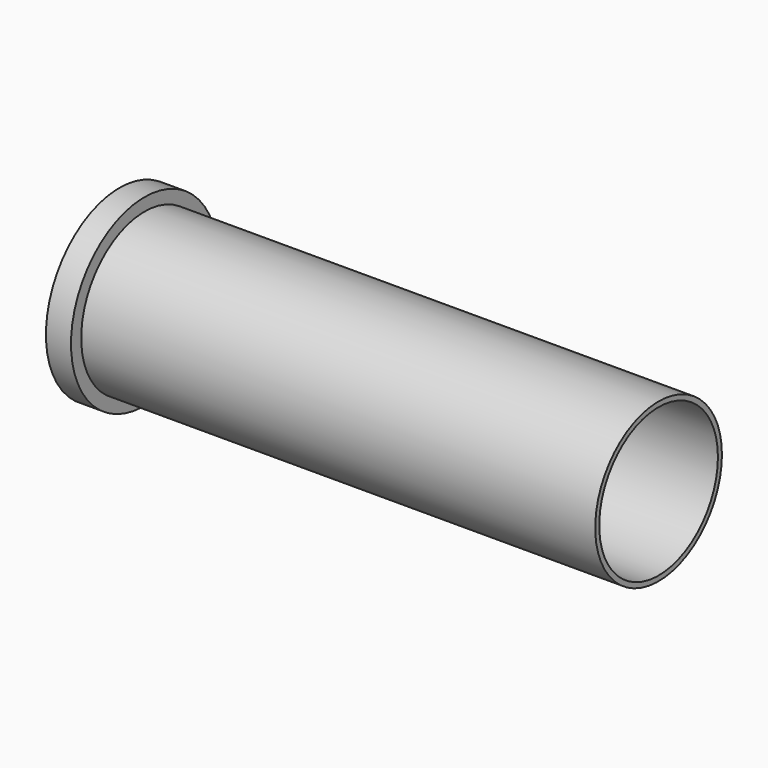
from build123d import *

# Parameters (mm, degrees)
F2_SIZE = 0.25


with BuildPart() as f1:
    # F0 (on Top) → F1 (revolve)
    with BuildSketch(Plane.XY):
        with BuildLine():
            Line((0, 5.588), (0, 2.22))
            Line((0, 2.22), (2.75, 2.22))
            ThreePointArc((2.75, 2.22), (2.926777, 2.146777), (3, 1.97))
            Line((3, 1.97), (3, 0.8874))
            ThreePointArc((3, 0.8874), (3.029289, 0.816689), (3.1, 0.7874))
            Line((3.1, 0.7874), (4.4, 0.7874))
            ThreePointArc((4.4, 0.7874), (4.470711, 0.816689), (4.5, 0.8874))
            Line((4.5, 0.8874), (4.5, 3.0085))
            ThreePointArc((4.5, 3.0085), (4.93934, 4.06916), (6, 4.5085))
            Line((6, 4.5085), (32.766, 4.5085))
            Line((32.766, 4.5085), (32.766, 4.8133))
            Line((32.766, 4.8133), (1.524, 4.8133))
            Line((1.524, 4.8133), (1.524, 5.588))
            Line((1.524, 5.588), (0, 5.588))
        make_face()
    revolve(axis=Axis((16.383, 0, 0), (-1, 0, 0)))

    # F2
    f2_edges = [f1.edges().sort_by_distance(p)[0] for p in [
        (0, -2.22, 0),
    ]]
    chamfer(f2_edges, length=F2_SIZE)


solid = f1.part
